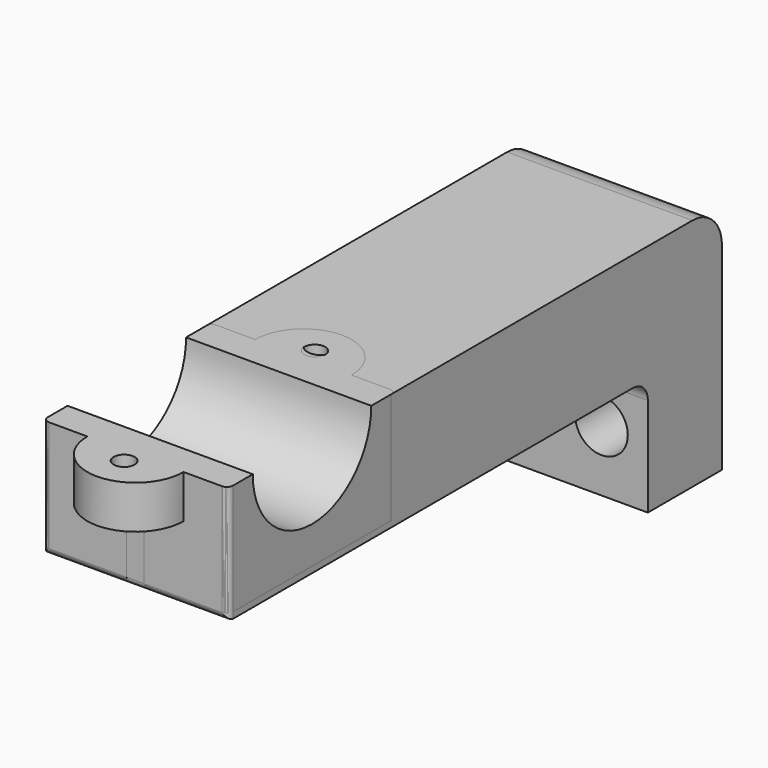
from build123d import *

# Parameters (mm, degrees)
SKETCH_W               = 30
SKETCH_H               = 38
PAD_DEPTH              = 15
SKETCH001_W            = 30
SKETCH001_H            = 19
PAD001_DEPTH           = 85
POCKET_DEPTH           = 30.001
SKETCH004_R            = 2.25
POCKET001_DEPTH        = 15.001
SKETCH005_R            = 4.25
POCKET002_DEPTH        = 10
PAD002_DEPTH           = 7
SKETCH007_R            = 2.3
POCKET003_DEPTH        = 4.2
SKETCH008_R            = 2.3
POCKET004_DEPTH        = 4.2
FILLET_R               = 3
FILLET014_R            = 6
FILLET015_R            = 1
CHAMFER_SIZE           = 1
BOX001_W               = 30
BOX001_H               = 83
BOX001_DEPTH           = 38
SKETCH017_W            = 30
SKETCH017_H            = 38
PAD006_DEPTH           = 15
SKETCH018_W            = 30
SKETCH018_H            = 19
PAD007_DEPTH           = 85
POCKET010_DEPTH        = 30.001
SKETCH020_R            = 2.25
POCKET011_DEPTH        = 15.001
SKETCH021_R            = 4.25
POCKET012_DEPTH        = 10
PAD008_DEPTH           = 7
SKETCH023_R            = 2.7
POCKET013_DEPTH        = 3.2
POCKET013_DEPTH_BACK   = -12
SKETCH024_R            = 1.7
POCKET014_DEPTH        = 38.001
CUT001_PLACEMENT_ANGLE = 180
BOX_W                  = 30
BOX_H                  = 83
BOX_DEPTH              = 38
SKETCH009_W            = 30
SKETCH009_H            = 38
PAD003_DEPTH           = 15
SKETCH010_W            = 30
SKETCH010_H            = 19
PAD004_DEPTH           = 85
POCKET005_DEPTH        = 30.001
SKETCH012_R            = 2.25
POCKET006_DEPTH        = 15.001
SKETCH013_R            = 4.25
POCKET007_DEPTH        = 10
PAD005_DEPTH           = 7
SKETCH015_R            = 2.7
POCKET008_DEPTH        = 3.2
POCKET008_DEPTH_BACK   = -12
SKETCH016_R            = 1.7
POCKET009_DEPTH        = 38.001
FILLET016_R            = 1
FILLET017_R            = 1
FILLET018_R            = 1


with BuildPart() as bracket:
    # Sketch → Pad (new body)
    with BuildSketch(Plane.XZ):
        with Locations((0, 19)):
            Rectangle(SKETCH_W, SKETCH_H)
    extrude(amount=PAD_DEPTH)

    # Sketch001 (on Face6 of Pad) → Pad001 (join)
    with BuildSketch(Plane.XZ.offset(15)):
        with Locations((0, 28.5)):
            Rectangle(SKETCH001_W, SKETCH001_H)
    extrude(amount=PAD001_DEPTH)

    # Sketch003 (on Face6 of Pad001) → Pocket (cut, through all)
    with BuildSketch(Plane(origin=(-15, 0, 0), x_dir=(0, 0, -1), z_dir=(-1, 0, 0))):
        with BuildLine():
            ThreePointArc((-38, 69.6), (-25.3, 82.3), (-38, 95))
            Line((-38, 69.6), (-38, 95))
        make_face()
    extrude(amount=-POCKET_DEPTH, mode=Mode.SUBTRACT)

    # Sketch004 (on Face5 of Pocket) → Pocket001 (cut, through all)
    with BuildSketch(Plane.XZ.offset(15)):
        with Locations((-7.5, 10)):
            Circle(SKETCH004_R)
        with Locations((7.5, 10)):
            Circle(SKETCH004_R)
    extrude(amount=-POCKET001_DEPTH, mode=Mode.SUBTRACT)

    # Sketch005 (on Face5 of Pocket001) → Pocket002 (cut)
    with BuildSketch(Plane.XZ.offset(15)):
        with Locations((-7.5, 10)):
            Circle(SKETCH005_R)
        with Locations((7.5, 10)):
            Circle(SKETCH005_R)
    extrude(amount=-POCKET002_DEPTH, mode=Mode.SUBTRACT)

    # Sketch006 (on Face8 of Pocket002) → Pad002 (join)
    with BuildSketch(Plane(origin=(0, 0, 38), x_dir=(-1, 0, 0), z_dir=(0, 0, 1))):
        with BuildLine():
            ThreePointArc((7.8, 100), (-1e-06, 107.8), (-7.8, 99.999997))
            Line((-7.8, 99.999997), (7.8, 100))
        make_face()
    extrude(amount=-PAD002_DEPTH)

    # Sketch007 (on Face18 of Pad002) → Pocket003 (cut)
    with BuildSketch(Plane(origin=(0, 0, 38), x_dir=(-1, 0, 0), z_dir=(0, 0, 1))):
        with Locations((0, 102.3)):
            Circle(SKETCH007_R)
    extrude(amount=-POCKET003_DEPTH, mode=Mode.SUBTRACT)

    # Sketch008 (on Face6 of Pocket003) → Pocket004 (cut)
    with BuildSketch(Plane(origin=(0, 0, 38), x_dir=(-1, 0, 0), z_dir=(0, 0, 1))):
        with Locations((0, 62.3)):
            Circle(SKETCH008_R)
    extrude(amount=-POCKET004_DEPTH, mode=Mode.SUBTRACT)

    # Fillet
    fillet_edges = [bracket.edges().sort_by_distance(p)[0] for p in [
        (0, -15, 19),
    ]]
    fillet(fillet_edges, radius=FILLET_R)

    # Fillet014
    fillet014_edges = [bracket.edges().sort_by_distance(p)[0] for p in [
        (0, 0, 38),
    ]]
    fillet(fillet014_edges, radius=FILLET014_R)

    # Fillet015
    fillet015_edges = [bracket.edges().sort_by_distance(p)[0] for p in [
        (15, -100, 28.5),
        (-15, -100, 28.5),
        (0, -100, 19),
    ]]
    fillet(fillet015_edges, radius=FILLET015_R)

    # Chamfer
    chamfer_edges = [bracket.edges().sort_by_distance(p)[0] for p in [
        (-9.75, -5, 10),
        (5.25, -5, 10),
    ]]
    chamfer(chamfer_edges, length=CHAMFER_SIZE)


with BuildPart() as cube001:
    # Box001 → Box001 (new body)
    with BuildSketch(Plane(origin=(-15, -83, 0), x_dir=(1, 0, 0), z_dir=(0, 0, 1))):
        with Locations((15, 41.5)):
            Rectangle(BOX001_W, BOX001_H)
    extrude(amount=BOX001_DEPTH)


with BuildPart() as cut001:
    # Sketch017 → Pad006 (new body)
    with BuildSketch(Plane.XZ):
        with Locations((0, 19)):
            Rectangle(SKETCH017_W, SKETCH017_H)
    extrude(amount=PAD006_DEPTH)

    # Sketch018 (on Face6 of Pad006) → Pad007 (join)
    with BuildSketch(Plane.XZ.offset(15)):
        with Locations((0, 28.5)):
            Rectangle(SKETCH018_W, SKETCH018_H)
    extrude(amount=PAD007_DEPTH)

    # Sketch019 (on Face6 of Pad007) → Pocket010 (cut, through all)
    with BuildSketch(Plane(origin=(-15, 0, 0), x_dir=(0, 0, -1), z_dir=(-1, 0, 0))):
        with BuildLine():
            ThreePointArc((-38, 71), (-26, 83), (-38, 95))
            Line((-38, 71), (-38, 95))
        make_face()
    extrude(amount=-POCKET010_DEPTH, mode=Mode.SUBTRACT)

    # Sketch020 (on Face5 of Pocket010) → Pocket011 (cut, through all)
    with BuildSketch(Plane.XZ.offset(15)):
        with Locations((-7.5, 10)):
            Circle(SKETCH020_R)
        with Locations((7.5, 10)):
            Circle(SKETCH020_R)
    extrude(amount=-POCKET011_DEPTH, mode=Mode.SUBTRACT)

    # Sketch021 (on Face5 of Pocket011) → Pocket012 (cut)
    with BuildSketch(Plane.XZ.offset(15)):
        with Locations((-7.5, 10)):
            Circle(SKETCH021_R)
        with Locations((7.5, 10)):
            Circle(SKETCH021_R)
    extrude(amount=-POCKET012_DEPTH, mode=Mode.SUBTRACT)

    # Sketch022 (on Face8 of Pocket012) → Pad008 (join)
    with BuildSketch(Plane(origin=(0, 0, 38), x_dir=(-1, 0, 0), z_dir=(0, 0, 1))):
        with BuildLine():
            ThreePointArc((7.8, 100), (-1e-06, 107.8), (-7.8, 99.999997))
            Line((-7.8, 99.999997), (7.8, 100))
        make_face()
    extrude(amount=-PAD008_DEPTH)

    # Sketch023 (on Face15 of Pad008) → Pocket013 (cut, two sides)
    with BuildSketch(Plane(origin=(0, 0, 31), x_dir=(1, 0, 0), z_dir=(0, 0, -1))) as pocket013_sk:
        with Locations((0, 102.3)):
            Circle(SKETCH023_R)
    extrude(amount=-POCKET013_DEPTH, mode=Mode.SUBTRACT)
    extrude(pocket013_sk.sketch, amount=-POCKET013_DEPTH_BACK, mode=Mode.SUBTRACT)

    # Sketch024 (on Face8 of Pocket013) → Pocket014 (cut, through all)
    with BuildSketch(Plane(origin=(0, 0, 38), x_dir=(-1, 0, 0), z_dir=(0, 0, 1))):
        with Locations((0, 102.3)):
            Circle(SKETCH024_R)
    extrude(amount=-POCKET014_DEPTH, mode=Mode.SUBTRACT)

    # Cut001: cut Cube001
    add(cube001.part, mode=Mode.SUBTRACT)


with BuildPart() as cut001_1:
    # Cut001 placement: moved
    add(cut001.part.moved(Location((0, -166, 0))).rotate(Axis((0, -166, 0), (0, 0, 1)), CUT001_PLACEMENT_ANGLE))


with BuildPart() as cube:
    # Box → Box (new body)
    with BuildSketch(Plane(origin=(-15, -83, 0), x_dir=(1, 0, 0), z_dir=(0, 0, 1))):
        with Locations((15, 41.5)):
            Rectangle(BOX_W, BOX_H)
    extrude(amount=BOX_DEPTH)


with BuildPart() as clamp001:
    # Sketch009 → Pad003 (new body)
    with BuildSketch(Plane.XZ):
        with Locations((0, 19)):
            Rectangle(SKETCH009_W, SKETCH009_H)
    extrude(amount=PAD003_DEPTH)

    # Sketch010 (on Face6 of Pad003) → Pad004 (join)
    with BuildSketch(Plane.XZ.offset(15)):
        with Locations((0, 28.5)):
            Rectangle(SKETCH010_W, SKETCH010_H)
    extrude(amount=PAD004_DEPTH)

    # Sketch011 (on Face6 of Pad004) → Pocket005 (cut, through all)
    with BuildSketch(Plane(origin=(-15, 0, 0), x_dir=(0, 0, -1), z_dir=(-1, 0, 0))):
        with BuildLine():
            ThreePointArc((-38, 71), (-26, 83), (-38, 95))
            Line((-38, 71), (-38, 95))
        make_face()
    extrude(amount=-POCKET005_DEPTH, mode=Mode.SUBTRACT)

    # Sketch012 (on Face5 of Pocket005) → Pocket006 (cut, through all)
    with BuildSketch(Plane.XZ.offset(15)):
        with Locations((-7.5, 10)):
            Circle(SKETCH012_R)
        with Locations((7.5, 10)):
            Circle(SKETCH012_R)
    extrude(amount=-POCKET006_DEPTH, mode=Mode.SUBTRACT)

    # Sketch013 (on Face5 of Pocket006) → Pocket007 (cut)
    with BuildSketch(Plane.XZ.offset(15)):
        with Locations((-7.5, 10)):
            Circle(SKETCH013_R)
        with Locations((7.5, 10)):
            Circle(SKETCH013_R)
    extrude(amount=-POCKET007_DEPTH, mode=Mode.SUBTRACT)

    # Sketch014 (on Face8 of Pocket007) → Pad005 (join)
    with BuildSketch(Plane(origin=(0, 0, 38), x_dir=(-1, 0, 0), z_dir=(0, 0, 1))):
        with BuildLine():
            ThreePointArc((7.8, 100), (-1e-06, 107.8), (-7.8, 99.999997))
            Line((-7.8, 99.999997), (7.8, 100))
        make_face()
    extrude(amount=-PAD005_DEPTH)

    # Sketch015 (on Face15 of Pad005) → Pocket008 (cut, two sides)
    with BuildSketch(Plane(origin=(0, 0, 31), x_dir=(1, 0, 0), z_dir=(0, 0, -1))) as pocket008_sk:
        with Locations((0, 102.3)):
            Circle(SKETCH015_R)
    extrude(amount=-POCKET008_DEPTH, mode=Mode.SUBTRACT)
    extrude(pocket008_sk.sketch, amount=-POCKET008_DEPTH_BACK, mode=Mode.SUBTRACT)

    # Sketch016 (on Face8 of Pocket008) → Pocket009 (cut, through all)
    with BuildSketch(Plane(origin=(0, 0, 38), x_dir=(-1, 0, 0), z_dir=(0, 0, 1))):
        with Locations((0, 102.3)):
            Circle(SKETCH016_R)
    extrude(amount=-POCKET009_DEPTH, mode=Mode.SUBTRACT)

    # Cut: cut Cube
    add(cube.part, mode=Mode.SUBTRACT)

    # Fusion: union Cut001
    add(cut001_1.part)

    # Fillet016
    fillet016_edges = [clamp001.edges().sort_by_distance(p)[0] for p in [
        (15, -66, 28.5),
        (-15, -66, 28.5),
    ]]
    fillet(fillet016_edges, radius=FILLET016_R)

    # Fillet017
    fillet017_edges = [clamp001.edges().sort_by_distance(p)[0] for p in [
        (-7.707107, -66, 19),
        (0, -66.4, 19),
        (7.707107, -66, 19),
    ]]
    fillet(fillet017_edges, radius=FILLET017_R)

    # Fillet018
    fillet018_edges = [clamp001.edges().sort_by_distance(p)[0] for p in [
        (7.707107, -100, 19),
        (-7.707107, -100, 19),
        (0, -99.6, 19),
    ]]
    fillet(fillet018_edges, radius=FILLET018_R)


solid = Compound([bracket.part, clamp001.part])
